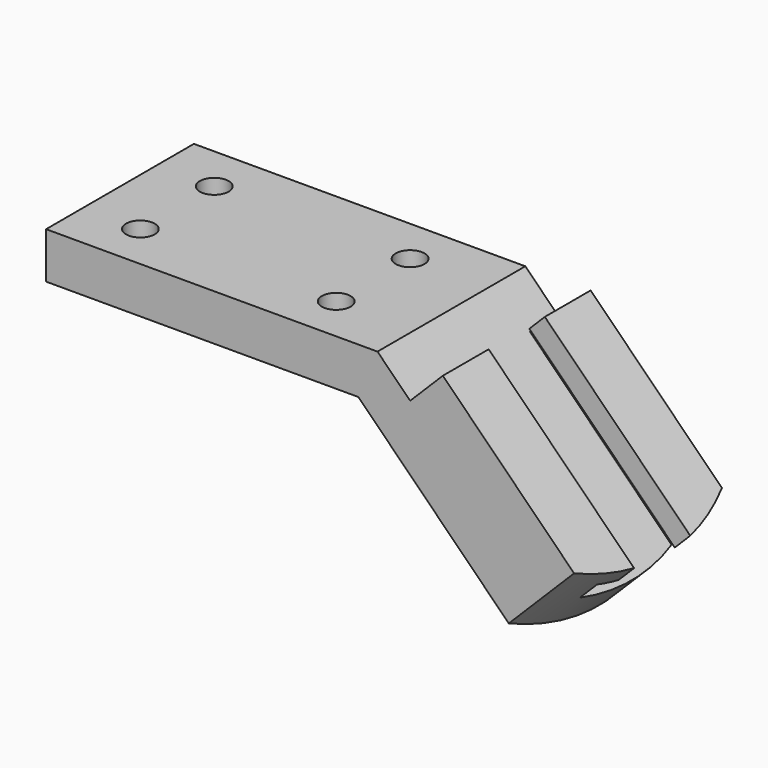
from build123d import *

# Parameters (mm, degrees)
F0_W           = 91.11234
F0_H           = 50.8
F3_DEPTH       = 12.7
F4_DEPTH       = 12.7
F6_DEPTH       = 82.805
F7_DEPTH       = 12.7
F9_D           = 7.9248
F9_CBORE_D     = 12.7
F9_CBORE_DEPTH = 6.096


with BuildPart() as f3:
    # F0 (on Top) → F3 (new body)
    with BuildSketch(Plane.XY):
        with Locations((-45.55617, 0)):
            Rectangle(F0_W, F0_H)
    extrude(amount=-F3_DEPTH)

    # F2 (on line) → F4 (join, symmetric)
    with BuildSketch(Plane(origin=(0, 0, 0), x_dir=(0.7071067812, 0, -0.7071067812), z_dir=(-0.7071067812, 0, -0.7071067812))):
        with BuildLine():
            Line((63.7370183547, 25.4), (0, 25.4))
            Line((0, 25.4), (0, -25.4))
            Line((0, -25.4), (63.7370183547, -25.4))
            ThreePointArc((63.7370183547, -25.4), (70.104, 0), (63.7370183547, 25.4))
        make_face()
    extrude(amount=F4_DEPTH, both=True)

    # F5 (on face) → F6 (cut, through all)
    with BuildSketch(Plane(origin=(0, 0, 0), x_dir=(0, -1, 0), z_dir=(-0.7071067812, 0, 0.7071067812))):
        Polygon((-15.748, 6.6890539291), (-15.748, 0), (15.748, 0), (15.748, 6.6890539291), (9.6519063121, 6.6890539291), (9.6519063121, 12.7), (-9.6519063121, 12.7), (-9.6519063121, 6.6890539291), align=None)
    extrude(amount=-F6_DEPTH, mode=Mode.SUBTRACT)

    # F5 (on face) → F7 (cut)
    with BuildSketch(Plane(origin=(0, 0, 0), x_dir=(0, -1, 0), z_dir=(-0.7071067812, 0, 0.7071067812))):
        Polygon((-25.4, 12.7), (-25.4, 0), (-15.748, 0), (-15.748, 6.6890539291), (-9.6519063121, 6.6890539291), (-9.6519063121, 12.7), align=None)
        Polygon((15.748, 6.6890539291), (15.748, 0), (25.4, 0), (25.4, 12.7), (9.6519063121, 12.7), (9.6519063121, 6.6890539291), align=None)
    extrude(amount=-F7_DEPTH, mode=Mode.SUBTRACT)

    # F9 (through all)
    with Locations(Plane(origin=(0, 0, -12.7), x_dir=(1, 0, 0), z_dir=(0, 0, -1))):
        with Locations((-75.36434, 12.7), (-75.36434, -12.7), (-21.51634, 12.7), (-21.51634, -12.7)):
            CounterBoreHole(F9_D / 2, F9_CBORE_D / 2, F9_CBORE_DEPTH)


solid = f3.part
